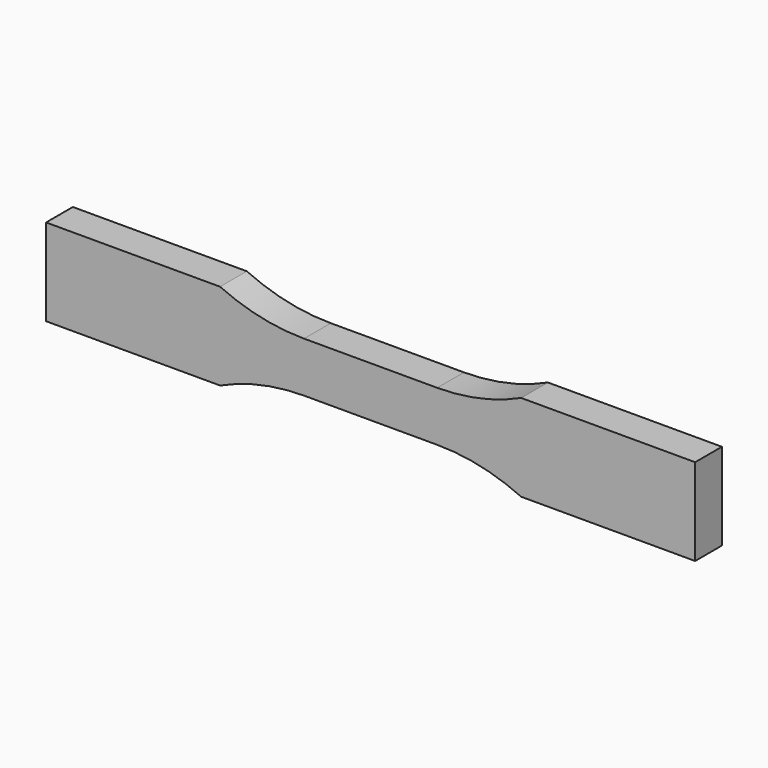
from build123d import *

# Parameters (mm, degrees)
F1_DEPTH = 12.7


with BuildPart() as f1:
    # F0 (on Front) → F1 (new body)
    with BuildSketch(Plane.XZ):
        with BuildLine():
            Line((25.279578, 9.525), (0, 9.525))
            Line((0, 9.525), (-25.279578, 9.525))
            ThreePointArc((-25.279578, 9.525), (-41.593024, 11.291731), (-57.15, 16.51))
            Line((-57.15, 16.51), (-123.19, 16.51))
            Line((-123.19, 16.51), (-123.19, 0))
            Line((-123.19, 0), (-123.19, -16.51))
            Line((-123.19, -16.51), (-57.15, -16.51))
            ThreePointArc((-57.15, -16.51), (-41.593024, -11.291731), (-25.279578, -9.525))
            Line((-25.279578, -9.525), (0, -9.525))
            Line((0, -9.525), (25.279578, -9.525))
            ThreePointArc((25.279578, -9.525), (41.593024, -11.291731), (57.15, -16.51))
            Line((57.15, -16.51), (123.19, -16.51))
            Line((123.19, -16.51), (123.19, 0))
            Line((123.19, 0), (123.19, 16.51))
            Line((123.19, 16.51), (57.15, 16.51))
            ThreePointArc((57.15, 16.51), (41.593024, 11.291731), (25.279578, 9.525))
        make_face()
    extrude(amount=F1_DEPTH)


solid = f1.part
